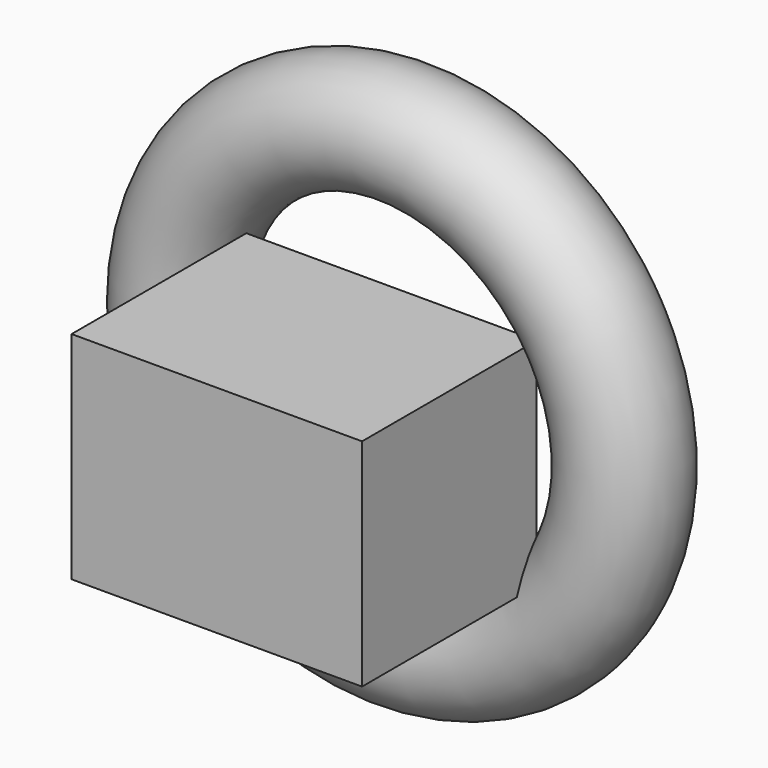
from build123d import *

# Parameters (mm, degrees)
F0_W     = 90.203732
F0_H     = 67.062504
F1_DEPTH = 67.818
F2_R     = 17.594757


with BuildPart() as f1:
    # F0 (on Front) → F1 (new body)
    with BuildSketch(Plane.XZ):
        with Locations((2.759345, -3.086228)):
            Rectangle(F0_W, F0_H)
    extrude(amount=F1_DEPTH)

    # F2 (on Top) → F4 (revolve)
    with BuildSketch(Plane.XY):
        with Locations((-69.082901, 7.466111)):
            Circle(F2_R)
    revolve(axis=Axis((0, -17.808218, 0), (0, -1, 0)))


solid = f1.part
